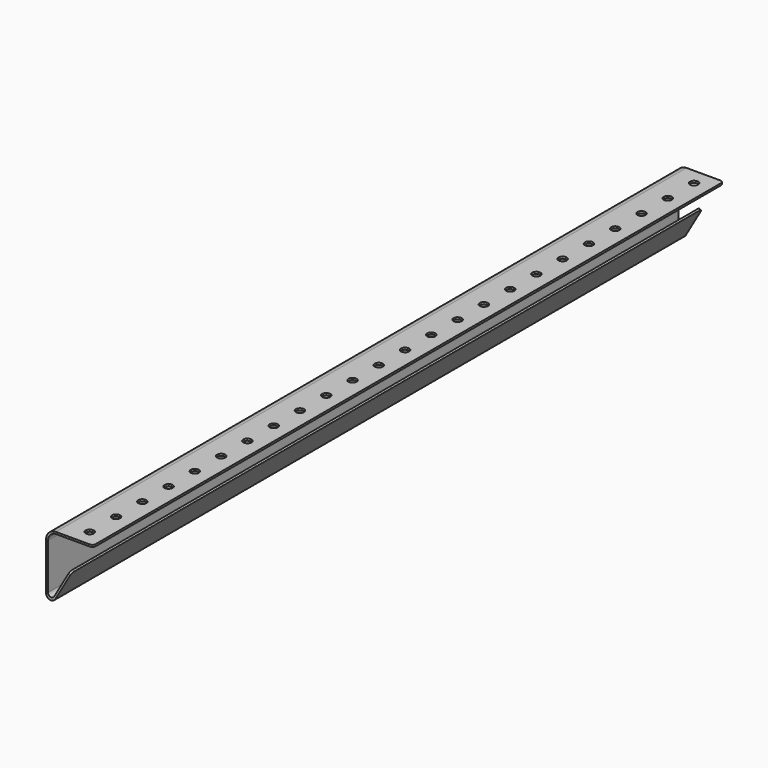
from build123d import *

# Parameters (mm, degrees)
F1_DEPTH = 609.6
F2_R     = 3.175
F3_DEPTH = 25.4
F4_R     = 2.54


with BuildPart() as f1:
    # F0 (on Front) → F1 (new body)
    with BuildSketch(Plane.XZ):
        with BuildLine():
            Line((-16.424578, 19.260229), (12.06593, 19.260229))
            Line((12.06593, 19.260229), (12.06593, 20.758829))
            Line((12.06593, 20.758829), (-16.653178, 20.758829))
            ThreePointArc((-16.653178, 20.758829), (-22.041332, 18.526982), (-24.273178, 13.138829))
            Line((-24.273178, 13.138829), (-24.273178, -23.307944))
            ThreePointArc((-24.273178, -23.307944), (-21.449279, -26.988121), (-17.163621, -25.212944))
            Line((-17.163621, -25.212944), (-4.463621, -3.215899))
            Line((-4.463621, -3.215899), (-5.761447, -2.466599))
            Line((-5.761447, -2.466599), (-18.034874, -23.724797))
            ThreePointArc((-18.034874, -23.724797), (-20.891979, -24.908249), (-22.774578, -22.454797))
            Line((-22.774578, -22.454797), (-22.774578, 12.910229))
            ThreePointArc((-22.774578, 12.910229), (-20.914706, 17.400357), (-16.424578, 19.260229))
        make_face()
    extrude(amount=-F1_DEPTH)

    # F2 (on face) → F3 (cut)
    with BuildSketch(Plane.XY.offset(20.758829)):
        with Locations((-0.63407, 12.7)):
            Circle(F2_R)
        with Locations((-0.63407, 38.1)):
            Circle(F2_R)
        with Locations((-0.63407, 63.5)):
            Circle(F2_R)
        with Locations((-0.63407, 88.9)):
            Circle(F2_R)
        with Locations((-0.63407, 114.3)):
            Circle(F2_R)
        with Locations((-0.63407, 139.7)):
            Circle(F2_R)
        with Locations((-0.63407, 165.1)):
            Circle(F2_R)
        with Locations((-0.63407, 190.5)):
            Circle(F2_R)
        with Locations((-0.63407, 215.9)):
            Circle(F2_R)
        with Locations((-0.63407, 241.3)):
            Circle(F2_R)
        with Locations((-0.63407, 266.7)):
            Circle(F2_R)
        with Locations((-0.63407, 292.1)):
            Circle(F2_R)
        with Locations((-0.63407, 317.5)):
            Circle(F2_R)
        with Locations((-0.63407, 342.9)):
            Circle(F2_R)
        with Locations((-0.63407, 368.3)):
            Circle(F2_R)
        with Locations((-0.63407, 393.7)):
            Circle(F2_R)
        with Locations((-0.63407, 419.1)):
            Circle(F2_R)
        with Locations((-0.63407, 444.5)):
            Circle(F2_R)
        with Locations((-0.63407, 469.9)):
            Circle(F2_R)
        with Locations((-0.63407, 495.3)):
            Circle(F2_R)
        with Locations((-0.63407, 520.7)):
            Circle(F2_R)
        with Locations((-0.63407, 546.1)):
            Circle(F2_R)
        with Locations((-0.63407, 571.5)):
            Circle(F2_R)
        with Locations((-0.63407, 596.9)):
            Circle(F2_R)
    extrude(amount=-F3_DEPTH, mode=Mode.SUBTRACT)

    # F4
    f4_edges = [f1.edges().sort_by_distance(p)[0] for p in [
        (12.06593, 0, 20.009529),
        (-5.112534, 0, -2.841249),
        (-5.112534, 609.6, -2.841249),
        (12.06593, 609.6, 20.009529),
    ]]
    fillet(f4_edges, radius=F4_R)


solid = f1.part
